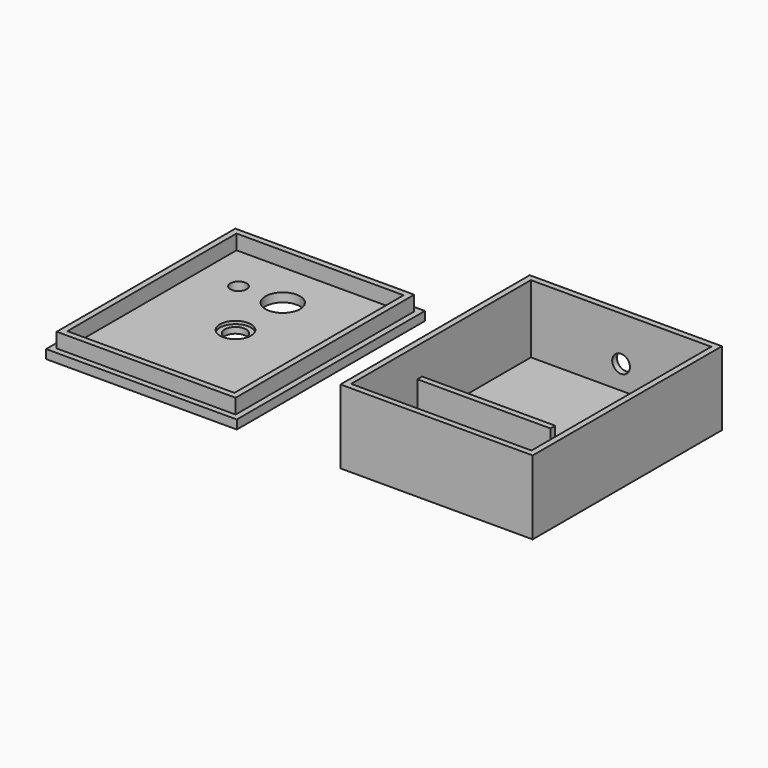
from build123d import *

# Parameters (mm, degrees)
F1_DEPTH = 2
F0_W     = 65
F0_H     = 80
F2_DEPTH = 25
F0_W_2   = 45
F0_H_2   = 2
F3_DEPTH = 15
F0_W_3   = 56.5
F0_H_3   = 71.5
F0_R     = 5.25
F0_R_2   = 2.75
F0_R_3   = 5.875
F4_DEPTH = 3
F0_W_4   = 64.5
F0_H_4   = 79.5
F0_W_5   = 60.5
F0_H_5   = 75.5
F5_DEPTH = 8
F0_R_4   = 3.625
F6_DEPTH = 2
F7_R     = 3
F8_DEPTH = 47.8


with BuildPart() as f1:
    # F0 (on Top) → F1 (new body)
    with BuildSketch(Plane.XY):
        Polygon((30.5, 38), (-30.5, 38), (-30.5, -8), (14.5, -8), (14.5, -10), (-30.5, -10), (-30.5, -38), (30.5, -38), align=None)
    extrude(amount=F1_DEPTH)

    # F0 (on Top) → F2 (join)
    with BuildSketch(Plane.XY):
        Rectangle(F0_W, F0_H)
        Polygon((-30.5, -8), (-30.5, 38), (30.5, 38), (30.5, -38), (-30.5, -38), (-30.5, -10), align=None, mode=Mode.SUBTRACT)
    extrude(amount=F2_DEPTH)

    # F0 (on Top) → F3 (join)
    with BuildSketch(Plane.XY):
        with Locations((-8, -9)):
            Rectangle(F0_W_2, F0_H_2)
    extrude(amount=F3_DEPTH)

    # F7 (on Front) → F8 (cut)
    with BuildSketch(Plane.XZ):
        with Locations((0, 10)):
            Circle(F7_R)
    extrude(amount=-F8_DEPTH, mode=Mode.SUBTRACT)


with BuildPart() as f4:
    # F0 (on Top) → F4 (new body)
    with BuildSketch(Plane.XY):
        with Locations((-100, 0)):
            Rectangle(F0_W_3, F0_H_3)
        with Locations((-100, 0)):
            Circle(F0_R, mode=Mode.SUBTRACT)
        with Locations((-115, 20)):
            Circle(F0_R_2, mode=Mode.SUBTRACT)
        with Locations((-100, 20)):
            Circle(F0_R_3, mode=Mode.SUBTRACT)
    extrude(amount=F4_DEPTH)



with BuildPart() as f4b:
    # F0 (on Top) → F4, piece 2 (new body)
    with BuildSketch(Plane.XY):
        with Locations((-100, 0)):
            Rectangle(F0_W_4, F0_H_4)
        with Locations((-100, 0)):
            Rectangle(F0_W_5, F0_H_5, mode=Mode.SUBTRACT)
    extrude(amount=F4_DEPTH)


with BuildPart() as f4_1:
    add(f4.part)

    add(f4b.part)  # F5 merges F4b
    # F0 (on Top) → F5 (join)
    with BuildSketch(Plane.XY):
        with Locations((-100, 0)):
            Rectangle(F0_W_5, F0_H_5)
        with Locations((-100, 0)):
            Rectangle(F0_W_3, F0_H_3, mode=Mode.SUBTRACT)
    extrude(amount=F5_DEPTH)

    # F0 (on Top) → F6 (join)
    with BuildSketch(Plane.XY):
        with Locations((-100, 0)):
            Circle(F0_R)
        with Locations((-100, 0)):
            Circle(F0_R_4, mode=Mode.SUBTRACT)
    extrude(amount=F6_DEPTH)


solid = Compound([f1.part, f4_1.part])
